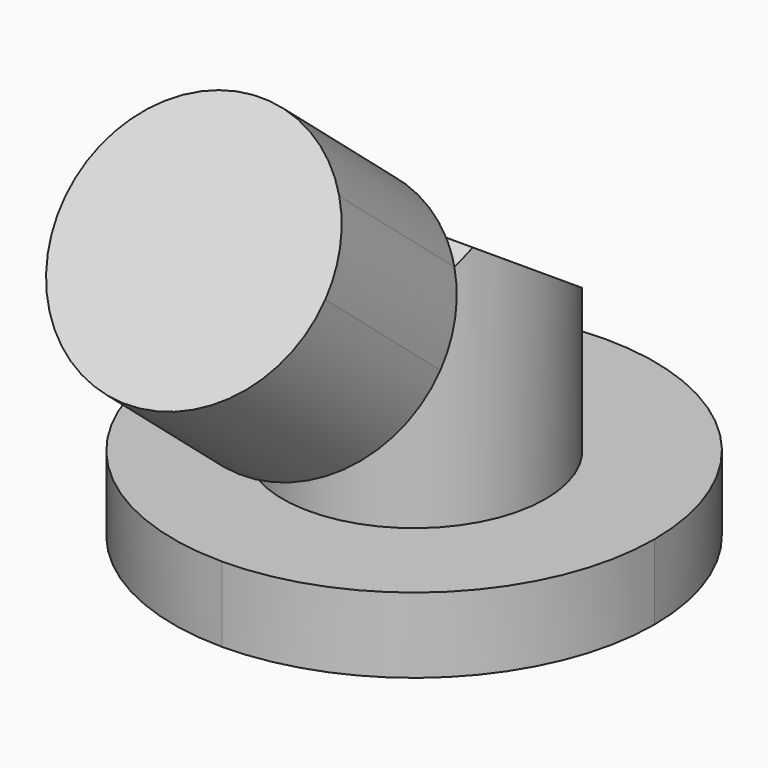
from build123d import *

# Parameters (mm, degrees)
F1_DEPTH = 32
F3_DEPTH = 50
F5_R     = 32
F5_R_2   = 17.5
F6_DEPTH = 40
F8_DEPTH = 25


with BuildPart() as f1:
    # F0 (on Right) → F1 (new body, symmetric)
    with BuildSketch(Plane.YZ):
        Polygon((-3.1593232416, 15), (32, 15), (-9.0026206753, 42.3286253849), (-31.9340601563, 15), align=None)
        Polygon((-32, 0), (32, 0), (32, 15), (-3.1593232416, 15), (-31.9340601563, 15), (-32, 15), align=None)
    extrude(amount=F1_DEPTH, both=True)

    # F2 (on face) → F3 (cut)
    with BuildSketch(Plane(origin=(0, 0, 0), x_dir=(1, 0, 0), z_dir=(0, 0, -1))):
        with BuildLine():
            ThreePointArc((-32, 0), (-22.6274170148, 22.6274169811), (-4.77e-08, 32))
            Line((-4.77e-08, 32), (-32, 32))
            Line((-32, 32), (-32, 0))
        make_face()
        with BuildLine():
            ThreePointArc((-4.77e-08, 32), (22.6274169811, 22.6274170148), (32, 0))
            Line((32, 0), (32, 32))
            Line((32, 32), (-4.77e-08, 32))
        make_face()
        with BuildLine():
            Line((32, -32), (32, 0))
            ThreePointArc((32, 0), (22.6274170148, -22.6274169811), (4.77e-08, -32))
            Line((4.77e-08, -32), (32, -32))
        make_face()
        with BuildLine():
            Line((-32, -32), (4.77e-08, -32))
            ThreePointArc((4.77e-08, -32), (-22.6274169811, -22.6274170148), (-32, 0))
            Line((-32, 0), (-32, -32))
        make_face()
    extrude(amount=-F3_DEPTH, mode=Mode.SUBTRACT)

    # F5 (on offset) → F6 (cut)
    with BuildSketch(Plane.XY.offset(50)):
        Circle(F5_R)
        Circle(F5_R_2, mode=Mode.SUBTRACT)
    extrude(amount=-F6_DEPTH, mode=Mode.SUBTRACT)

    # F7 (on face) → F8 (join)
    with BuildSketch(Plane(origin=(0, -26.1257339016, 21.9220936811), x_dir=(1, 0, 0), z_dir=(0, -0.7660444431, 0.6427876097))):
        with BuildLine():
            ThreePointArc((-13.8842207303, 24.0718845353), (-5.6247727608, -3.1521593573), (17.5, 13.4192597549))
            ThreePointArc((17.5, 13.4192597549), (16.5714191121, 19.0440325156), (13.8842207303, 24.0718845353))
            add(Edge.make_bspline(
                [(-13.8842207303, 24.0718845353), (0, -4.0807402451), (13.8842207303, 24.0718845353)],
                knots=[2.2441013689, 2.2441013689, 2.2441013689, 4.0390839383, 4.0390839383, 4.0390839383], degree=2, weights=[0.9413907542, 0.5730447129, 0.9413907542]))
        make_face()
        with BuildLine():
            add(Edge.make_bspline(
                [(-13.8842207303, 24.0718845353), (0, -4.0807402451), (13.8842207303, 24.0718845353)],
                knots=[2.2441013689, 2.2441013689, 2.2441013689, 4.0390839383, 4.0390839383, 4.0390839383], degree=2, weights=[0.9413907542, 0.5730447129, 0.9413907542]))
            ThreePointArc((13.8842207303, 24.0718845353), (12.7404400783, 25.4163921877), (11.4670320525, 26.6388352362))
            Line((11.4670320525, 26.6388352362), (-11.4670320525, 26.6388352362))
            ThreePointArc((-11.4670320525, 26.6388352362), (-12.7404400783, 25.4163921877), (-13.8842207303, 24.0718845353))
        make_face()
        with BuildLine():
            Line((-11.4670320525, 26.6388352362), (11.4670320525, 26.6388352362))
            ThreePointArc((11.4670320525, 26.6388352362), (0, 30.9192597549), (-11.4670320525, 26.6388352362))
        make_face()
    extrude(amount=F8_DEPTH)


solid = f1.part
